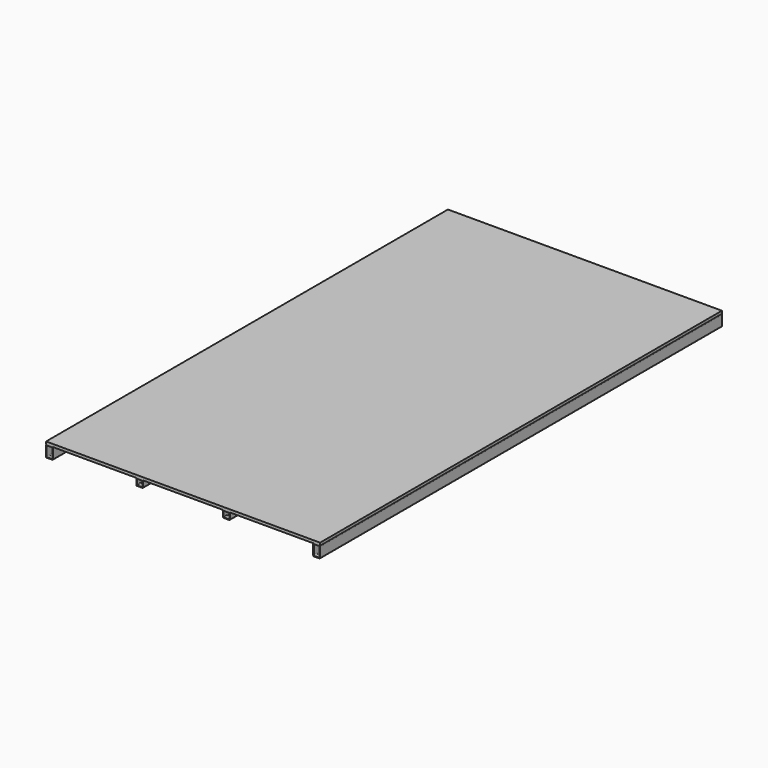
from build123d import *

# Parameters (mm, degrees)
F1_DEPTH = 2200
F2_W     = 1200
F2_H     = 2200
F3_DEPTH = 12


with BuildPart() as f1:
    # F0 (on Front) → F1 (new body)
    with BuildSketch(Plane.XZ):
        with BuildLine():
            ThreePointArc((-175, -3), (-175.87868, -0.87868), (-178, 0))
            Line((-178, 0), (-202, 0))
            ThreePointArc((-202, 0), (-204.12132, -0.87868), (-205, -3))
            Line((-205, -3), (-205, -27))
            ThreePointArc((-205, -27), (-204.12132, -29.12132), (-202, -30))
            Line((-202, -30), (-178, -30))
            ThreePointArc((-178, -30), (-175.87868, -29.12132), (-175, -27))
            Line((-175, -27), (-175, -3))
        make_face()
        with BuildLine():
            ThreePointArc((-180, -2.5), (-178.232233, -3.232233), (-177.5, -5))
            Line((-177.5, -5), (-177.5, -25))
            ThreePointArc((-177.5, -25), (-178.232233, -26.767767), (-180, -27.5))
            Line((-180, -27.5), (-200, -27.5))
            ThreePointArc((-200, -27.5), (-201.767767, -26.767767), (-202.5, -25))
            Line((-202.5, -25), (-202.5, -5))
            ThreePointArc((-202.5, -5), (-201.767767, -3.232233), (-200, -2.5))
            Line((-200, -2.5), (-180, -2.5))
        make_face(mode=Mode.SUBTRACT)
        with BuildLine():
            Line((-573, 0), (-597, 0))
            ThreePointArc((-597, 0), (-599.12132, -0.87868), (-600, -3))
            Line((-600, -3), (-600, -47))
            ThreePointArc((-600, -47), (-599.12132, -49.12132), (-597, -50))
            Line((-597, -50), (-573, -50))
            ThreePointArc((-573, -50), (-570.87868, -49.12132), (-570, -47))
            Line((-570, -47), (-570, -3))
            ThreePointArc((-570, -3), (-570.87868, -0.87868), (-573, 0))
        make_face()
        with BuildLine():
            ThreePointArc((-575.8, -2.5), (-573.466548, -3.466548), (-572.5, -5.8))
            Line((-572.5, -5.8), (-572.5, -44.2))
            ThreePointArc((-572.5, -44.2), (-573.466548, -46.533452), (-575.8, -47.5))
            Line((-575.8, -47.5), (-594.2, -47.5))
            ThreePointArc((-594.2, -47.5), (-596.533452, -46.533452), (-597.5, -44.2))
            Line((-597.5, -44.2), (-597.5, -5.8))
            ThreePointArc((-597.5, -5.8), (-596.533452, -3.466548), (-594.2, -2.5))
            Line((-594.2, -2.5), (-575.8, -2.5))
        make_face(mode=Mode.SUBTRACT)
        with BuildLine():
            ThreePointArc((175, -27), (175.87868, -29.12132), (178, -30))
            Line((178, -30), (202, -30))
            ThreePointArc((202, -30), (204.12132, -29.12132), (205, -27))
            Line((205, -27), (205, -3))
            ThreePointArc((205, -3), (204.12132, -0.87868), (202, 0))
            Line((202, 0), (178, 0))
            ThreePointArc((178, 0), (175.87868, -0.87868), (175, -3))
            Line((175, -3), (175, -27))
        make_face()
        with BuildLine():
            Line((202.5, -5), (202.5, -25))
            ThreePointArc((202.5, -25), (201.767767, -26.767767), (200, -27.5))
            Line((200, -27.5), (180, -27.5))
            ThreePointArc((180, -27.5), (178.232233, -26.767767), (177.5, -25))
            Line((177.5, -25), (177.5, -5))
            ThreePointArc((177.5, -5), (178.232233, -3.232233), (180, -2.5))
            Line((180, -2.5), (200, -2.5))
            ThreePointArc((200, -2.5), (201.767767, -3.232233), (202.5, -5))
        make_face(mode=Mode.SUBTRACT)
        with BuildLine():
            ThreePointArc((600, -3), (599.12132, -0.87868), (597, 0))
            Line((597, 0), (573, 0))
            ThreePointArc((573, 0), (570.87868, -0.87868), (570, -3))
            Line((570, -3), (570, -47))
            ThreePointArc((570, -47), (570.87868, -49.12132), (573, -50))
            Line((573, -50), (597, -50))
            ThreePointArc((597, -50), (599.12132, -49.12132), (600, -47))
            Line((600, -47), (600, -3))
        make_face()
        with BuildLine():
            Line((575.8, -2.5), (594.2, -2.5))
            ThreePointArc((594.2, -2.5), (596.533452, -3.466548), (597.5, -5.8))
            Line((597.5, -5.8), (597.5, -44.2))
            ThreePointArc((597.5, -44.2), (596.533452, -46.533452), (594.2, -47.5))
            Line((594.2, -47.5), (575.8, -47.5))
            ThreePointArc((575.8, -47.5), (573.466548, -46.533452), (572.5, -44.2))
            Line((572.5, -44.2), (572.5, -5.8))
            ThreePointArc((572.5, -5.8), (573.466548, -3.466548), (575.8, -2.5))
        make_face(mode=Mode.SUBTRACT)
    extrude(amount=F1_DEPTH)


with BuildPart() as f3:
    # F2 (on face) → F3 (new body)
    with BuildSketch(Plane.XY):
        with Locations((0, -1100)):
            Rectangle(F2_W, F2_H)
    extrude(amount=F3_DEPTH)


solid = Compound([f1.part, f3.part])
